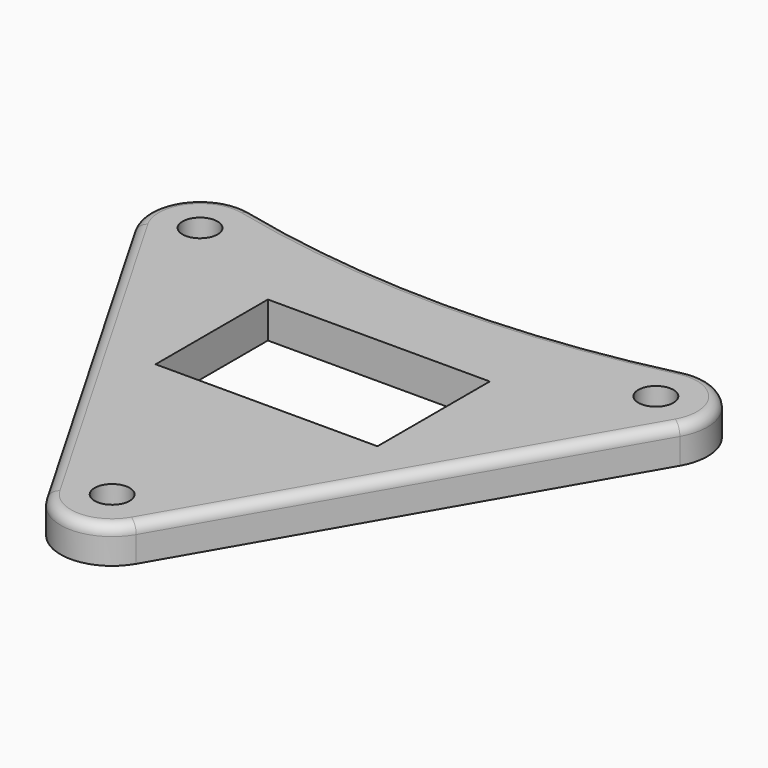
from build123d import *

# Parameters (mm, degrees)
SKETCH_R  = 1.7
SKETCH_W  = 21.5
SKETCH_H  = 13.6
PAD_DEPTH = 3.5
FILLET_R  = 1


with BuildPart() as part:
    # Sketch → Pad (new body)
    with BuildSketch(Plane.XY):
        with BuildLine():
            ThreePointArc((-20.921351, 17.61303), (-26.091433, 15.739591), (-26.413774, 10.249999))
            Line((-26.413774, 10.249999), (-4.330127, -28))
            ThreePointArc((-4.330127, -28), (0, -30.5), (4.330127, -28))
            Line((4.330127, -28), (26.413774, 10.249998))
            ThreePointArc((26.413774, 10.249998), (26.091434, 15.739591), (20.921351, 17.61303))
            ThreePointArc((-20.921351, 17.61303), (0, 15.147578), (20.921351, 17.61303))
        make_face()
        with Locations((-22.083648, 12.75)):
            Circle(SKETCH_R, mode=Mode.SUBTRACT)
        with Locations((22.083648, 12.75)):
            Circle(SKETCH_R, mode=Mode.SUBTRACT)
        with Locations((0, -25.5)):
            Circle(SKETCH_R, mode=Mode.SUBTRACT)
        Rectangle(SKETCH_W, SKETCH_H, mode=Mode.SUBTRACT)
    extrude(amount=PAD_DEPTH)

    # Fillet
    fillet_edges = [part.edges().sort_by_distance(p)[0] for p in [
        (-15.371951, -8.875001, 3.5),
        (-26.091433, 15.739591, 3.5),
        (0, 15.147578, 3.5),
        (26.091434, 15.739591, 3.5),
        (15.37195, -8.875001, 3.5),
        (0, -30.5, 3.5),
    ]]
    fillet(fillet_edges, radius=FILLET_R)


solid = part.part
